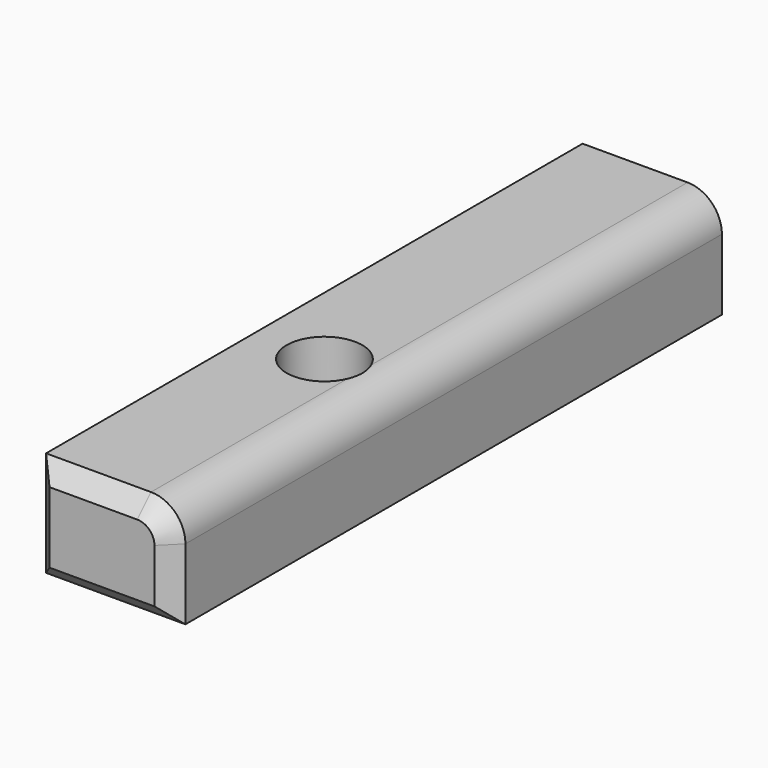
from build123d import *

# Parameters (mm, degrees)
F0_W     = 102.922255
F0_H     = 77.739151
F1_DEPTH = 508
F2_R     = 25.4
F4_D     = 55.88
F5_SIZE  = 12.7


with BuildPart() as f1:
    # F0 (on Front) → F1 (new body)
    with BuildSketch(Plane.XZ):
        with Locations((-26.825475, 10.584204)):
            Rectangle(F0_W, F0_H)
    extrude(amount=F1_DEPTH)

    # F2
    f2_edges = [f1.edges().sort_by_distance(p)[0] for p in [
        (24.635652, -254, 49.45378),
    ]]
    fillet(f2_edges, radius=F2_R)

    # F4 (through all)
    with Locations(Plane.XY.offset(49.45378)):
        with Locations((-26.449531, -303.084731)):
            Hole(F4_D / 2)

    # F5
    f5_edges = [f1.edges().sort_by_distance(p)[0] for p in [
        (-39.525476, -508, 49.45378),
        (17.196164, -508, 42.014292),
        (-78.286603, -508, 10.584204),
        (24.635652, -508, -2.115796),
        (-26.825476, -508, -28.285371),
    ]]
    chamfer(f5_edges, length=F5_SIZE)


solid = f1.part
